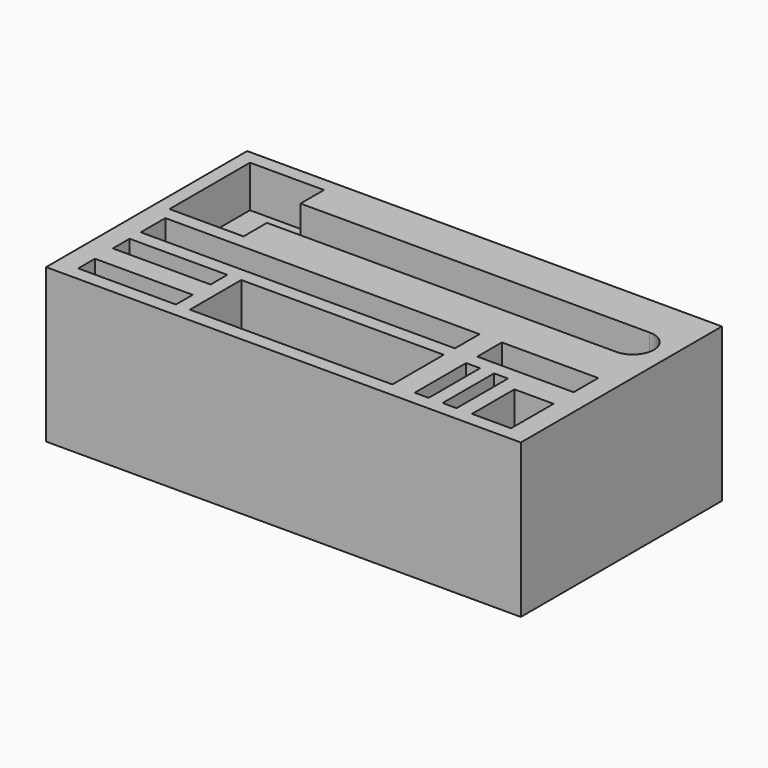
from build123d import *

# Parameters (mm, degrees)
F0_W      = 340
F0_H      = 180
F1_DEPTH  = 110
F2_W      = 53
F2_H      = 72
F4_DEPTH  = 30
F5_DEPTH  = 20
F7_W      = 225
F7_H      = 22
F12_DEPTH = 100
F6_W      = 70
F6_H      = 15
F13_DEPTH = 80
F8_W      = 145
F8_H      = 46
F14_DEPTH = 100
F9_W      = 69
F9_H      = 22
F15_DEPTH = 100
F10_W     = 10
F10_H     = 46
F16_DEPTH = 15
F11_W     = 28
F11_H     = 38
F17_DEPTH = 25


with BuildPart() as f1:
    # F0 (on Top) → F1 (new body)
    with BuildSketch(Plane.XY):
        Rectangle(F0_W, F0_H)
    extrude(amount=-F1_DEPTH)

    # F2 (on face) → F4 (cut)
    with BuildSketch(Plane.XY):
        with Locations((-133.5, 44)):
            Rectangle(F2_W, F2_H)
    extrude(amount=-F4_DEPTH, mode=Mode.SUBTRACT)

    # F3 (on face) → F5 (cut)
    with BuildSketch(Plane.XY):
        with BuildLine():
            Line((143, 59), (-107, 59))
            Line((-107, 59), (-107, 29))
            Line((-107, 29), (143, 29))
            ThreePointArc((143, 29), (158, 44), (143, 59))
        make_face()
    extrude(amount=-F5_DEPTH, mode=Mode.SUBTRACT)

    # F7 (on face) → F12 (cut)
    with BuildSketch(Plane.XY):
        with Locations((-42.5, -13)):
            Rectangle(F7_W, F7_H)
    extrude(amount=-F12_DEPTH, mode=Mode.SUBTRACT)

    # F6 (on face) → F13 (cut)
    with BuildSketch(Plane.XY):
        with Locations((-120, -72.5)):
            Rectangle(F6_W, F6_H)
        with Locations((-120, -41.5)):
            Rectangle(F6_W, F6_H)
    extrude(amount=-F13_DEPTH, mode=Mode.SUBTRACT)

    # F8 (on face) → F14 (cut)
    with BuildSketch(Plane.XY):
        with Locations((-2.5, -57)):
            Rectangle(F8_W, F8_H)
    extrude(amount=-F14_DEPTH, mode=Mode.SUBTRACT)

    # F9 (on face) → F15 (cut)
    with BuildSketch(Plane.XY):
        with Locations((120.5, -13)):
            Rectangle(F9_W, F9_H)
    extrude(amount=-F15_DEPTH, mode=Mode.SUBTRACT)

    # F10 (on face) → F16 (cut)
    with BuildSketch(Plane.XY):
        with Locations((91, -57)):
            Rectangle(F10_W, F10_H)
        with Locations((111, -57)):
            Rectangle(F10_W, F10_H)
    extrude(amount=-F16_DEPTH, mode=Mode.SUBTRACT)

    # F11 (on face) → F17 (cut)
    with BuildSketch(Plane.XY):
        with Locations((141, -61)):
            Rectangle(F11_W, F11_H)
    extrude(amount=-F17_DEPTH, mode=Mode.SUBTRACT)


solid = f1.part
